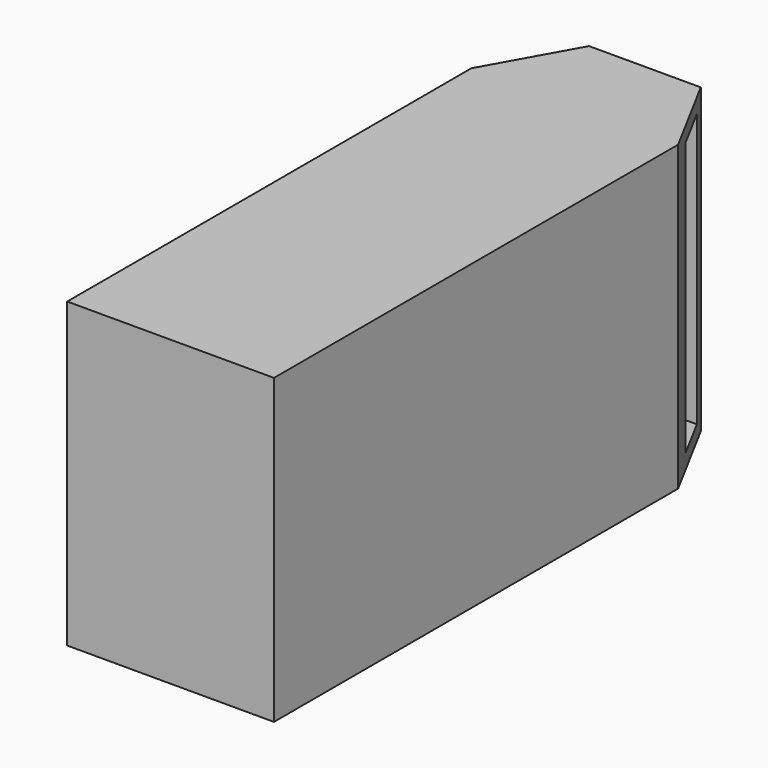
from build123d import *

# Parameters (mm, degrees)
F0_W          = 35.36984
F0_H          = 86.427912
F1_DEPTH      = 25.4
F1_DEPTH_BACK = 26.416
F2_T          = -2.54


with BuildPart() as f1:
    # F0 (on Top) → F1 (new body, two sides)
    with BuildSketch(Plane.XY) as f1_sk:
        Polygon((-9.412942, 58.046471), (-17.68492, 43.213956), (17.68492, 43.213956), (9.698181, 58.046471), align=None)
        Rectangle(F0_W, F0_H)
    extrude(amount=F1_DEPTH)
    extrude(f1_sk.sketch, amount=-F1_DEPTH_BACK)

    # F2
    f2_openings = [f1.faces().sort_by_distance(p)[0] for p in [
        (-13.548931, 50.630214, -0.508),
        (13.691551, 50.630214, -0.508),
    ]]
    offset(amount=F2_T, openings=f2_openings)


solid = f1.part
